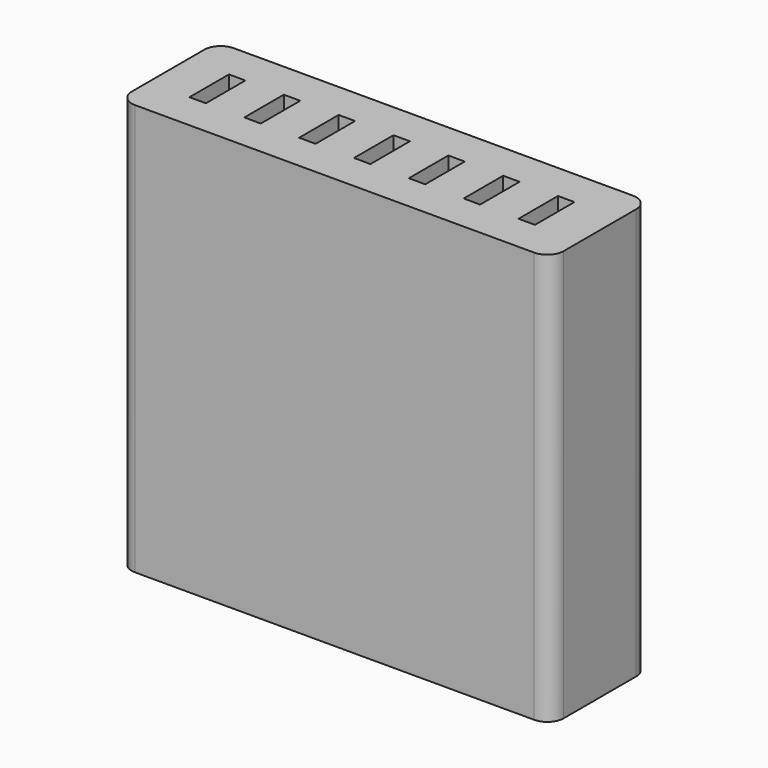
from build123d import *

# Parameters (mm, degrees)
SKETCH_W            = 105
SKETCH_H            = 30
PAD_DEPTH           = 100
FILLET_R            = 4
SKETCH001_W         = 4
SKETCH001_H         = 12
POCKET_DEPTH        = 5
LINEARPATTERN_COUNT = 7
LINEARPATTERN_PITCH = 13.333333
SKETCH002_R         = 4
SKETCH002_W         = 27
SKETCH002_H         = 11
POCKET001_DEPTH     = 5


with BuildPart() as part:
    # Sketch → Pad (new body)
    with BuildSketch(Plane.XY):
        Rectangle(SKETCH_W, SKETCH_H)
    extrude(amount=PAD_DEPTH)

    # Fillet
    fillet_edges = [part.edges().sort_by_distance(p)[0] for p in [
        (52.5, 15, 50),
        (52.5, -15, 50),
        (-52.5, 15, 50),
        (-52.5, -15, 50),
    ]]
    fillet(fillet_edges, radius=FILLET_R)

    # Sketch001 (on Face5 of Fillet) → Pocket (cut)
    with BuildSketch(Plane.XY.offset(100)):
        with Locations((-40.5, 0)):
            Rectangle(SKETCH001_W, SKETCH001_H)
    pocket = extrude(amount=-POCKET_DEPTH, mode=Mode.SUBTRACT)

    # LinearPattern: Pocket ×7
    with Locations(*[(i * LINEARPATTERN_PITCH, 0, 0) for i in range(1, LINEARPATTERN_COUNT)]):
        add(pocket, mode=Mode.SUBTRACT)

    # Sketch002 (on Face2 of LinearPattern) → Pocket001 (cut)
    with BuildSketch(Plane(origin=(0, 0, 0), x_dir=(1, 0, 0), z_dir=(0, 0, -1))):
        with Locations((30.333276, 0)):
            Circle(SKETCH002_R)
        with Locations((3.195694, 0)):
            Rectangle(SKETCH002_W, SKETCH002_H)
    extrude(amount=-POCKET001_DEPTH, mode=Mode.SUBTRACT)


solid = part.part
